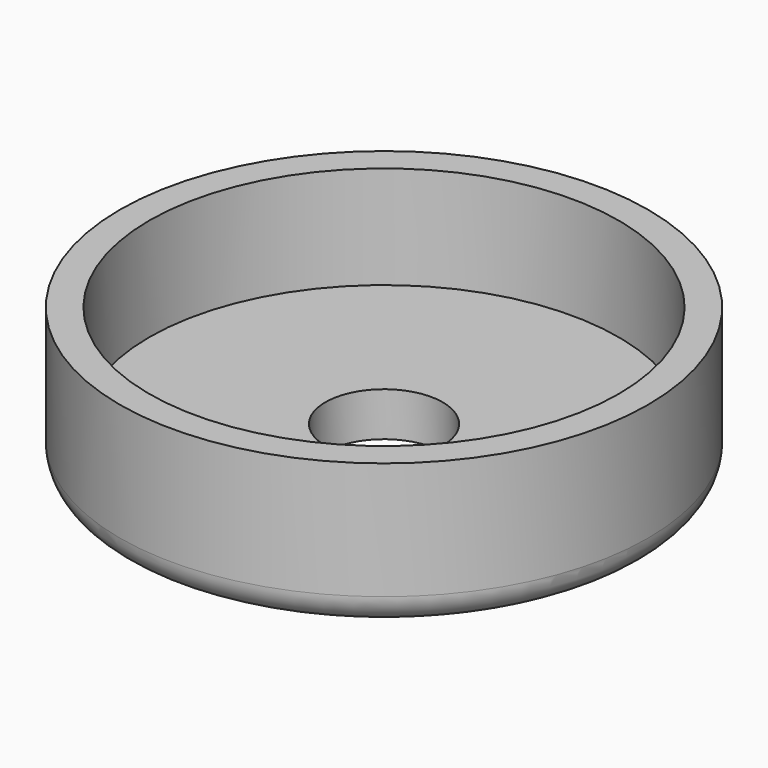
from build123d import *

# Parameters (mm, degrees)
F0_R     = 18
F1_DEPTH = 10
F2_R     = 16
F3_DEPTH = 7
F4_R     = 4
F5_DEPTH = 25
F6_R     = 2


with BuildPart() as f1:
    # F0 (on Top) → F1 (new body)
    with BuildSketch(Plane.XY):
        Circle(F0_R)
    extrude(amount=F1_DEPTH)

    # F2 (on face) → F3 (cut)
    with BuildSketch(Plane.XY.offset(10)):
        Circle(F2_R)
    extrude(amount=-F3_DEPTH, mode=Mode.SUBTRACT)

    # F4 (on face) → F5 (cut)
    with BuildSketch(Plane(origin=(0, 0, 0), x_dir=(1, 0, 0), z_dir=(0, 0, -1))):
        Circle(F4_R)
    extrude(amount=-F5_DEPTH, mode=Mode.SUBTRACT)

    # F6
    f6_edges = [f1.edges().sort_by_distance(p)[0] for p in [
        (-18, 0, 0),
    ]]
    fillet(f6_edges, radius=F6_R)


solid = f1.part
